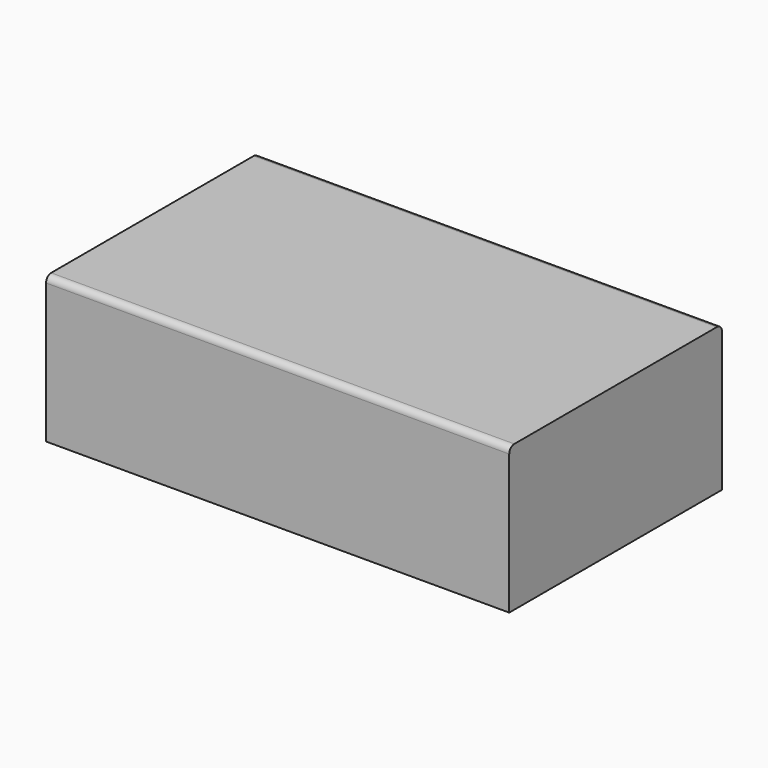
from build123d import *

# Parameters (mm, degrees)
PAD_DEPTH    = 730
SKETCH001_R  = 12.5
POCKET_DEPTH = 15


with BuildPart() as part:
    # Sketch → Pad (new body)
    with BuildSketch(Plane.YZ):
        with BuildLine():
            Line((-209.5, 0), (209.5, 0))
            Line((209.5, 0), (209.5, 220))
            ThreePointArc((209.5, 220), (206.571068, 227.071068), (199.5, 230))
            Line((199.5, 230), (-199.5, 230))
            ThreePointArc((-199.5, 230), (-206.571068, 227.071068), (-209.5, 220))
            Line((-209.5, 220), (-209.5, 0))
        make_face()
    extrude(amount=PAD_DEPTH)

    # Sketch001 → Pocket (cut)
    with BuildSketch(Plane.YZ):
        with Locations((139.5, 70)):
            Circle(SKETCH001_R)
    extrude(amount=POCKET_DEPTH, mode=Mode.SUBTRACT)


solid = part.part
